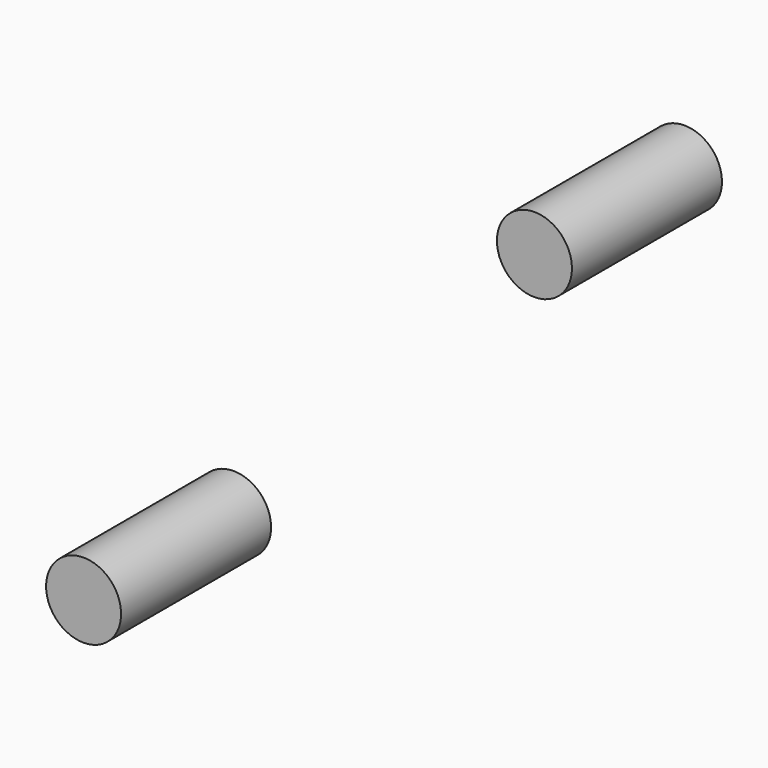
from build123d import *

# Parameters (mm, degrees)
CYLINDER006_R          = 2
CYLINDER006_DEPTH      = 10
CYLINDER007_R          = 2
CYLINDER007_DEPTH      = 10
FUSION_PLACEMENT_ANGLE = 315


with BuildPart() as cylinder:
    # Cylinder006 → Cylinder006 (new body)
    with BuildSketch(Plane(origin=(-17, 0, 0), x_dir=(1, 0, 0), z_dir=(0, -1, 0))):
        Circle(CYLINDER006_R)
    extrude(amount=CYLINDER006_DEPTH)


with BuildPart() as fusion:
    # Cylinder007 → Cylinder007 (new body)
    with BuildSketch(Plane(origin=(17, 0, 0), x_dir=(1, 0, 0), z_dir=(0, -1, 0))):
        Circle(CYLINDER007_R)
    extrude(amount=CYLINDER007_DEPTH)

    # Fusion: union Cylinder
    add(cylinder.part)


with BuildPart() as fusion_1:
    # Fusion placement: moved
    add(fusion.part.moved(Location((0, 0, 20))).rotate(Axis((0, 0, 20), (0, 1, 0)), FUSION_PLACEMENT_ANGLE))


solid = fusion_1.part
